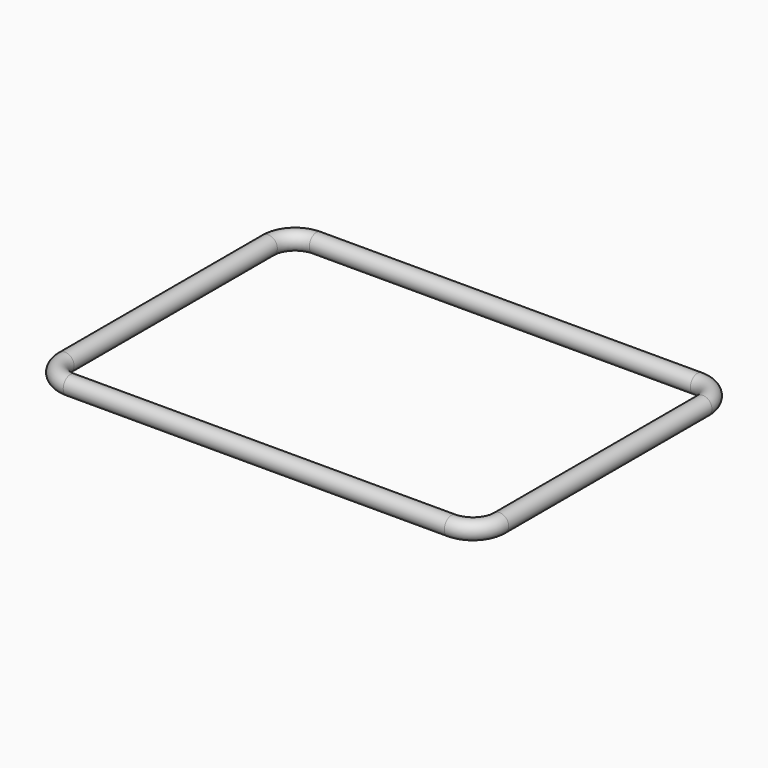
from build123d import *

# Parameters (mm, degrees)
F0_R   = 13.5
F0_R_2 = 12.25


with BuildPart() as f2:
    # F2: sweep along a path in F1
    with BuildLine(Plane.XY) as f2_path:
        Line((0, 0), (285, 0))
        ThreePointArc((285, 0), (313.2842712475, -11.7157287525), (325, -40))
        Line((325, -40), (325, -420))
        ThreePointArc((325, -420), (313.2842712475, -448.2842712475), (285, -460))
        Line((285, -460), (-285, -460))
        ThreePointArc((-285, -460), (-313.2842712475, -448.2842712475), (-325, -420))
        Line((-325, -420), (-325, -40))
        ThreePointArc((-325, -40), (-313.2842712475, -11.7157287525), (-285, 0))
        Line((-285, 0), (0, 0))
    # F0 (on Right) → F2 (sweep)
    with BuildSketch(Plane.YZ):
        Circle(F0_R)
        Circle(F0_R_2, mode=Mode.SUBTRACT)
    sweep(path=f2_path.line)


solid = f2.part
